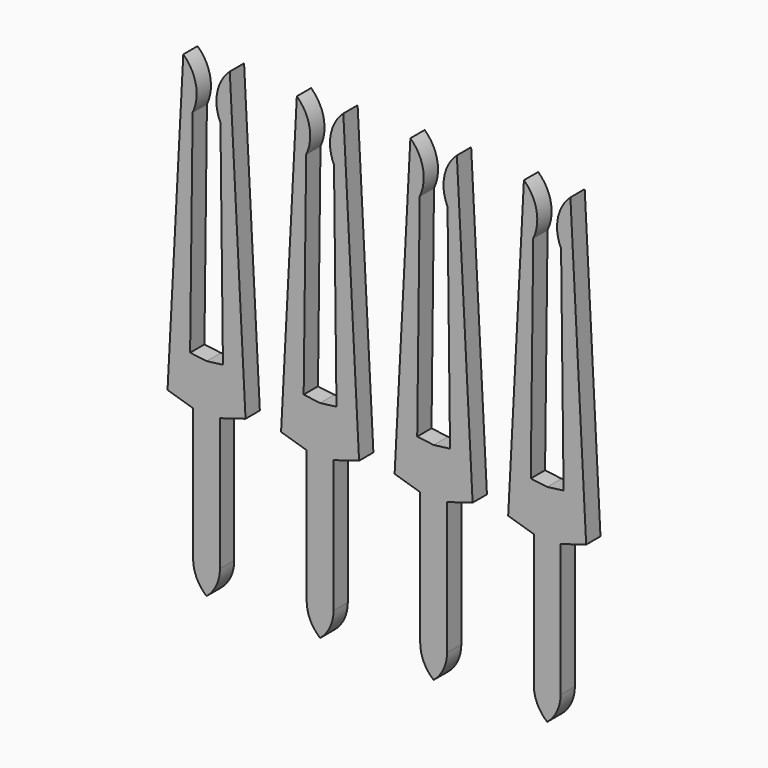
from build123d import *

# Parameters (mm, degrees)
EXTRUDE004_DEPTH                     = 0.4
EXTRUDE004_ONTO_SKETCH004_ROLL_ANGLE = 90
ARRAY_X_COUNT                        = 4
ARRAY_X_PITCH                        = 2.54


with BuildPart() as obj1:
    # Sketch004 as drawn → Extrude004 (new)
    with BuildSketch(Plane.XY):
        with BuildLine():
            Line((-0.52, 7.5), (-0.87243, 0.77523))
            Line((-0.87243, 0.77523), (-0.3, 0.601222))
            Line((-0.3, 0.601222), (-0.3, -2.364495))
            ThreePointArc((-0.3, -2.364495), (-0.221231, -2.715873), (0, -3))
            Line((0, -3), (0, 1.62804))
            Line((0, 1.62804), (-0.367163, 1.674743))
            Line((-0.367163, 1.674743), (-0.311338, 6.421084))
            ThreePointArc((-0.311338, 6.421084), (-0.237846, 6.994933), (-0.52, 7.5))
        make_face()
    extrude(amount=-EXTRUDE004_DEPTH)


with BuildPart() as obj1_1:
    # Extrude004 onto Sketch004 roll: moved
    add(obj1.part.rotate(Axis((0, 0, 0), (1, 0, 0)), EXTRUDE004_ONTO_SKETCH004_ROLL_ANGLE))


with BuildPart() as obj1_2:
    # Extrude004 onto Sketch004 placement: moved
    add(obj1_1.part.moved(Location((0, -0.2, 0))))


with BuildPart() as pins:
    # Part__Mirroring: instance of obj1
    add(obj1_2.part.mirror(Plane(origin=(0, 0, 0), x_dir=(0, -1, 0), z_dir=(1, 0, 0))))

    # Fusion001: union obj1
    add(obj1_2.part)

    # Array X: pins ×4


with BuildPart() as pins_1:
    add(pins.part)
    with Locations(*[(i * ARRAY_X_PITCH, 0, 0) for i in range(1, ARRAY_X_COUNT)]):
        add(pins.part)


solid = pins_1.part
